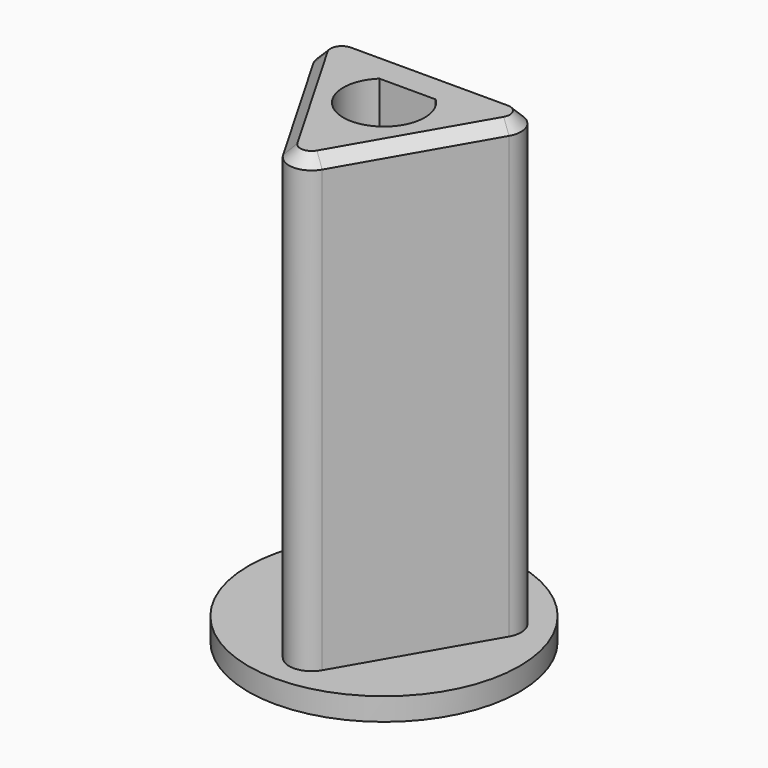
from build123d import *

# Parameters (mm, degrees)
SKETCH_R     = 6
PAD_DEPTH    = 1
PAD001_DEPTH = 20
FILLET_R     = 1
CHAMFER_SIZE = 0.5


with BuildPart() as part:
    # Sketch → Pad (new body)
    with BuildSketch(Plane.XY):
        Circle(SKETCH_R)
        with BuildLine():
            ThreePointArc((-1.24499, 1.3), (0, -1.8), (1.24499, 1.3))
            Line((-1.24499, 1.3), (1.24499, 1.3))
        make_face(mode=Mode.SUBTRACT)
    extrude(amount=-PAD_DEPTH)

    # Sketch001 → Pad001 (join)
    with BuildSketch(Plane.XY):
        Polygon((-5.196152, 3), (5.196152, 3), (0, -6), align=None)
        with BuildLine():
            ThreePointArc((-1.24499, 1.3), (0, -1.8), (1.24499, 1.3))
            Line((-1.24499, 1.3), (1.24499, 1.3))
        make_face(mode=Mode.SUBTRACT)
    extrude(amount=PAD001_DEPTH)

    # Fillet
    fillet_edges = [part.edges().sort_by_distance(p)[0] for p in [
        (0, -6, 10),
        (5.196152, 3, 10),
        (-5.196152, 3, 10),
    ]]
    fillet(fillet_edges, radius=FILLET_R)

    # Chamfer
    chamfer_edges = [part.edges().sort_by_distance(p)[0] for p in [
        (-2.598076, -1.5, 20),
    ]]
    chamfer(chamfer_edges, length=CHAMFER_SIZE)


solid = part.part
